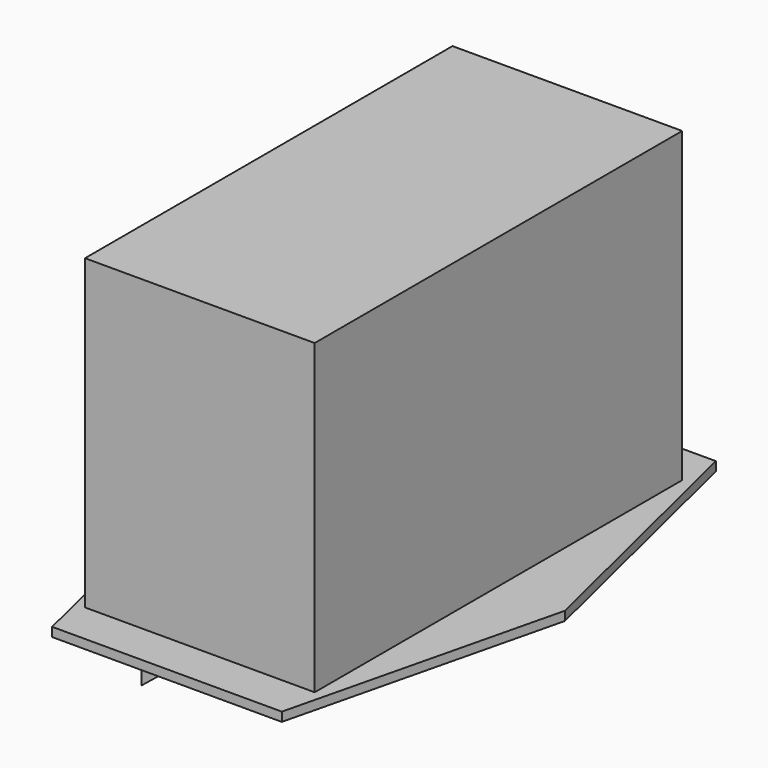
from build123d import *

# Parameters (mm, degrees)
F1_DEPTH  = 1
F4_W      = 25.4
F4_H      = 50.8
F5_DEPTH  = 34
F6_W      = 1.778
F6_H      = 3.81
F7_DEPTH  = 17.78
F8_W      = 20.32
F8_H      = 12.7
F9_DEPTH  = 7.62
F11_DEPTH = 25.4


with BuildPart() as f1:
    # F0 (on Top) → F1 (new body)
    with BuildSketch(Plane.XY):
        Polygon((12.7, 30), (0, 30), (0, 0), (20, 0), align=None)
    extrude(amount=F1_DEPTH)

    # F2: F1 across plane


with BuildPart() as f1_1:
    add(f1.part)
    add(f1.part.mirror(Plane.XZ))

    # F3: F1 across plane


with BuildPart() as f1_2:
    add(f1_1.part)
    add(f1_1.part.mirror(Plane.YZ))

    # F4 (on face) → F5 (join)
    with BuildSketch(Plane.XY.offset(1)):
        with Locations((-0.045811, 0)):
            Rectangle(F4_W, F4_H)
    extrude(amount=F5_DEPTH)

    # F6 (on face) → F7 (cut)
    with BuildSketch(Plane(origin=(0, 0, 0), x_dir=(1, 0, 0), z_dir=(0, 0, -1))):
        Polygon((-5.4, -22.54), (5, -22.54), (12.3, -15.24), (12.3, -2.54), (-12.7, -2.54), (-12.7, -15.24), align=None)
        with Locations((-5.969, -9.508814)):
            Rectangle(F6_W, F6_H, mode=Mode.SUBTRACT)
        with Locations((0.038805, -15.194196)):
            Rectangle(F6_W, F6_H, mode=Mode.SUBTRACT)
        with Locations((5.969, -9.508814)):
            Rectangle(F6_W, F6_H, mode=Mode.SUBTRACT)
    extrude(amount=-F7_DEPTH, mode=Mode.SUBTRACT)

    # F8 (on face) → F9 (join)
    with BuildSketch(Plane(origin=(0, 0, 0), x_dir=(1, 0, 0), z_dir=(0, 0, -1))):
        with Locations((0, 14.463713)):
            Rectangle(F8_W, F8_H)
    extrude(amount=F9_DEPTH)

    # F10 (on face) → F11 (cut)
    with BuildSketch(Plane(origin=(0, -8.113713, 0), x_dir=(-1, 0, 0), z_dir=(0, 1, 0))):
        Polygon((10.16, -7.62), (-10.16, -1.168574), (-10.16, -7.62), align=None)
        with BuildLine():
            ThreePointArc((10.16, -7.62), (0.686877, -2.230835), (-10.16, -1.168574))
            Line((-10.16, -1.168574), (10.16, -7.62))
        make_face()
    extrude(amount=-F11_DEPTH, mode=Mode.SUBTRACT)


solid = f1_2.part
